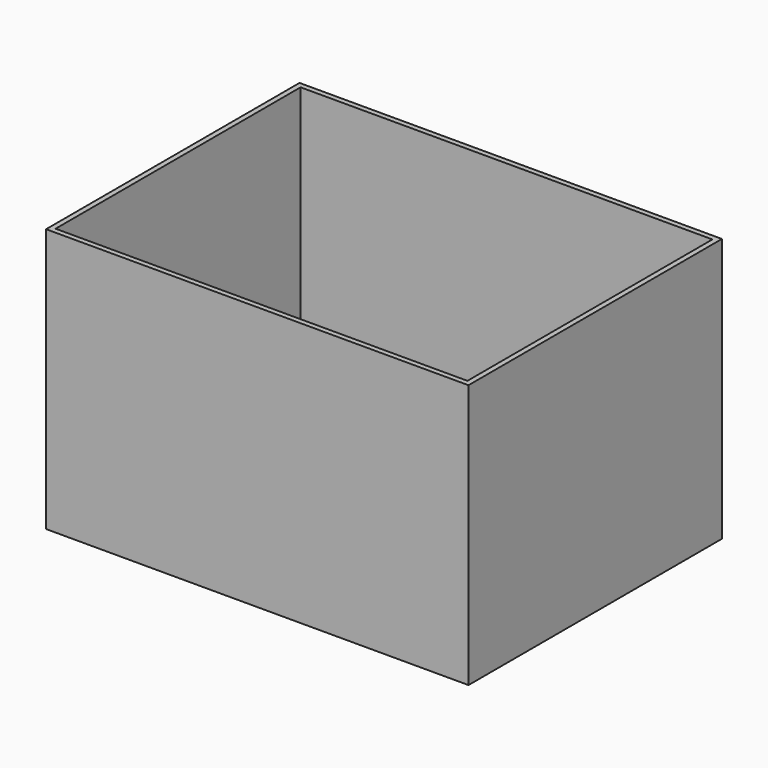
from build123d import *

# Parameters (mm, degrees)
SKETCH_W     = 40
SKETCH_H     = 30
PAD_DEPTH    = 25
SKETCH001_W  = 39
SKETCH001_H  = 29
POCKET_DEPTH = 23


with BuildPart() as part:
    # Sketch → Pad (new body)
    with BuildSketch(Plane.XY):
        Rectangle(SKETCH_W, SKETCH_H)
    extrude(amount=PAD_DEPTH)

    # Sketch001 (on Face6 of Pad) → Pocket (cut)
    with BuildSketch(Plane.XY.offset(25)):
        Rectangle(SKETCH001_W, SKETCH001_H)
    extrude(amount=-POCKET_DEPTH, mode=Mode.SUBTRACT)


solid = part.part
